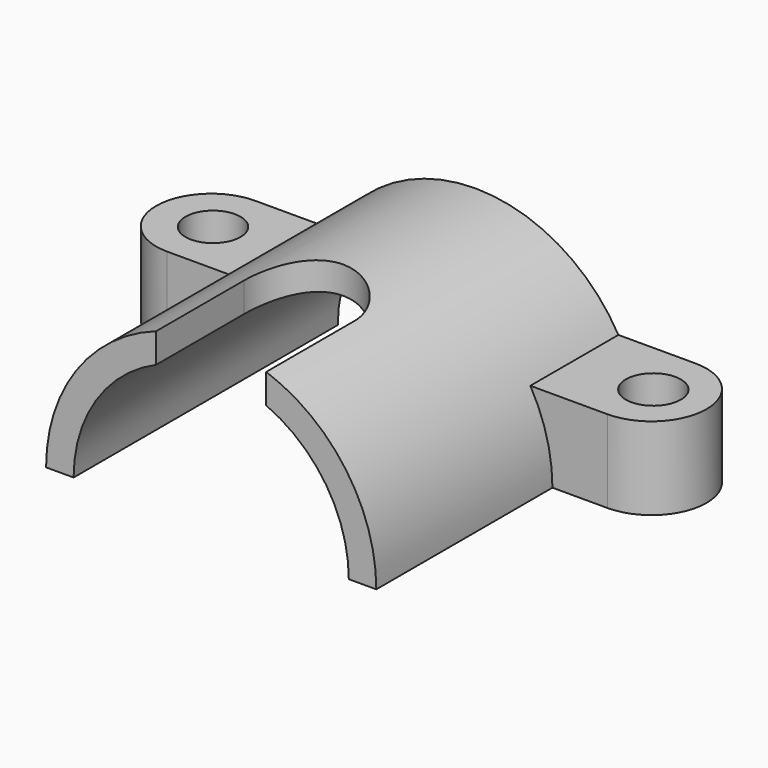
from build123d import *

# Parameters (mm, degrees)
F0_R      = 30
F1_DEPTH  = 60
F3_DEPTH  = 60
F4_R      = 5
F5_DEPTH  = 15
F7_DEPTH  = 60
F10_W     = 20
F10_H     = 40
F11_DEPTH = 25


with BuildPart() as f1:
    # F0 (on Front) → F1 (new body)
    with BuildSketch(Plane.XZ):
        Circle(F0_R)
    extrude(amount=F1_DEPTH)

    # F2 (on face) → F3 (cut, through all)
    with BuildSketch(Plane.XZ.offset(60)):
        with BuildLine():
            Line((30, 0), (-30, 0))
            ThreePointArc((-30, 0), (0, -30), (30, 0))
        make_face()
    extrude(amount=-F3_DEPTH, mode=Mode.SUBTRACT)

    # F4 (on Top) → F5 (join)
    with BuildSketch(Plane.XY):
        with BuildLine():
            Line((40, 0), (-40, 0))
            ThreePointArc((-40, 0), (-50, -10), (-40, -20))
            Line((-40, -20), (40, -20))
            ThreePointArc((40, -20), (50, -10), (40, 0))
        make_face()
        with Locations((-39.6707831735, -10)):
            Circle(F4_R, mode=Mode.SUBTRACT)
        with Locations((40.3292197076, -10)):
            Circle(F4_R, mode=Mode.SUBTRACT)
    extrude(amount=F5_DEPTH)

    # F6 (on face) → F7 (cut, through all)
    with BuildSketch(Plane.XZ.offset(60)):
        with BuildLine():
            Line((-25, 0), (25, 0))
            ThreePointArc((25, 0), (0, 25), (-25, 0))
        make_face()
    extrude(amount=-F7_DEPTH, mode=Mode.SUBTRACT)

    # F10 (on plane+point) → F11 (cut)
    with BuildSketch(Plane.XY.offset(30)):
        with BuildLine():
            Line((-10, -40), (10, -40))
            ThreePointArc((10, -40), (0, -30), (-10, -40))
        make_face()
        with Locations((0, -60)):
            Rectangle(F10_W, F10_H)
    extrude(amount=-F11_DEPTH, mode=Mode.SUBTRACT)


solid = f1.part
